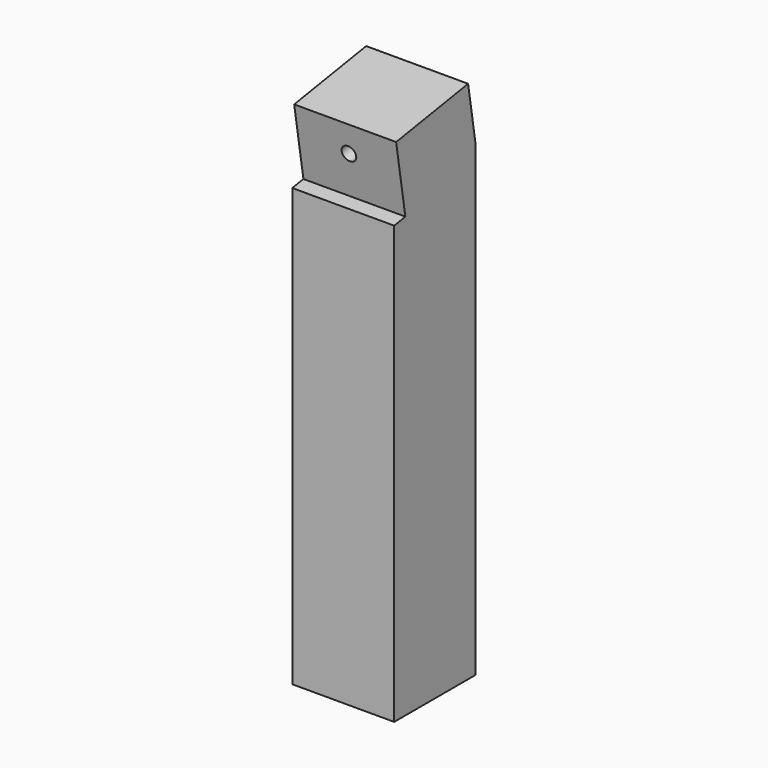
from build123d import *

# Parameters (mm, degrees)
F0_W     = 88.9
F0_H     = 457.2
F1_DEPTH = 44.45
F3_DEPTH = 127
F4_R     = 6.35
F5_DEPTH = 127


with BuildPart() as f1:
    # F0 (on Front) → F1 (new body, symmetric)
    with BuildSketch(Plane.XZ):
        Rectangle(F0_W, F0_H)
    extrude(amount=F1_DEPTH, both=True)

    # F2 (on Right) → F3 (cut, symmetric)
    with BuildSketch(Plane.YZ):
        Polygon((44.45, 177.8), (44.45, 228.6), (36.1311809715, 228.6), align=None)
        Polygon((-42.3455583973, 215.7489410875), (36.1311809715, 228.6), (34.0267393688, 241.4510589125), (-44.45, 228.6), align=None)
        Polygon((-32.2976503157, 154.3900235786), (-42.3455583973, 215.7489410875), (-44.45, 228.6), (-44.45, 152.4), align=None)
    extrude(amount=F3_DEPTH, both=True, mode=Mode.SUBTRACT)

    # F4 (on face) → F5 (cut, symmetric)
    with BuildSketch(Plane(origin=(0, -6.8321038597, -1.1187999132), x_dir=(1, 0, 0), z_dir=(0, -0.9868557164, -0.1616038211))):
        with Locations((0, 194.3562798646)):
            Circle(F4_R)
    extrude(amount=F5_DEPTH, both=True, mode=Mode.SUBTRACT)


solid = f1.part
